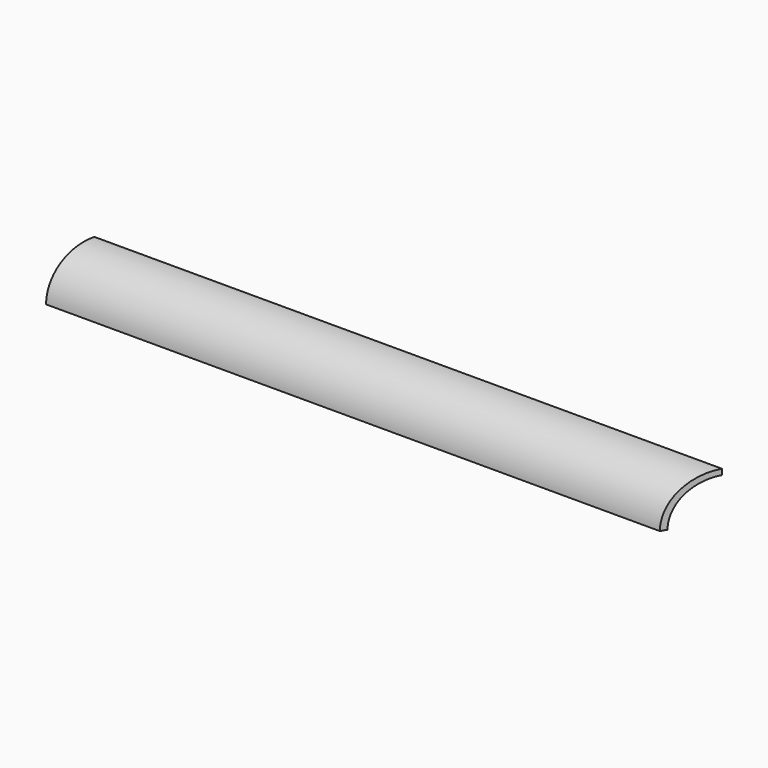
from build123d import *

# Parameters (mm, degrees)
F1_DEPTH = 360.426
F3_DEPTH = 25.4


with BuildPart() as f1:
    # F0 (on Right) → F1 (new body)
    with BuildSketch(Plane.YZ):
        with BuildLine():
            ThreePointArc((0, 25.4), (-17.960512, 17.960512), (-25.4, 0))
            Line((-25.4, 0), (-22.225, 0))
            ThreePointArc((-22.225, 0), (-15.715448, 15.715448), (0, 22.225))
            Line((0, 22.225), (0, 25.4))
        make_face()
    extrude(amount=F1_DEPTH)

    # F2 (on Top) → F3 (cut)
    with BuildSketch(Plane.XY):
        Polygon((6.896267, 0), (0, 0), (0, -25.4), align=None)
        Polygon((360.426, -25.4), (360.426, 0), (345.761303, -25.4), align=None)
    extrude(amount=F3_DEPTH, mode=Mode.SUBTRACT)


solid = f1.part
